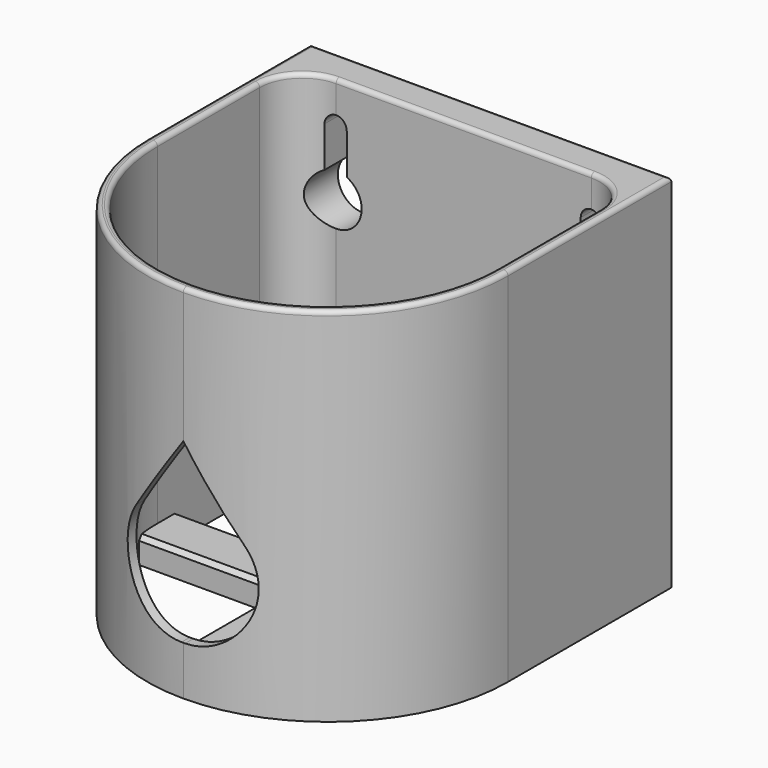
from build123d import *

# Parameters (mm, degrees)
PAD_DEPTH       = 85
PAD001_DEPTH    = 6
POCKET_DEPTH    = 42.401
POCKET001_DEPTH = 48.001
FILLET_R        = 1
CHAMFER_SIZE    = 1


with BuildPart() as part:
    # Sketch → Pad (new body)
    with BuildSketch(Plane.XY):
        with BuildLine():
            Line((40, 30), (40, 0))
            ThreePointArc((0, -40), (28.284271, -28.284271), (40, 0))
            Line((0, -40), (0, -42.4))
            ThreePointArc((0, -42.4), (29.981328, -29.981328), (42.4, 0))
            Line((42.4, 48), (42.4, 0))
            Line((0, 48), (42.4, 48))
            Line((0, 48), (0, 40))
            Line((0, 40), (30, 40))
            ThreePointArc((40, 30), (37.071068, 37.071068), (30, 40))
        make_face()
    pad = extrude(amount=PAD_DEPTH)

    # Mirrored: Pad across Sketch V_Axis
    add(pad.mirror(Plane(origin=(0, 0, 0), x_dir=(0, 0, 1), z_dir=(1, 0, 0))))

    # Sketch001 → Pad001 (join)
    with BuildSketch(Plane.XY):
        Polygon((6, -41.507187), (6, -6), (40.95602, -6), (40.95602, 6), (6, 6), (6, 41.507187), (-6, 41.507187), (-6, 6), (-40.95602, 6), (-40.95602, -6), (-6, -6), (-6, -41.507187), align=None)
    extrude(amount=PAD001_DEPTH)

    # Sketch002 → Pocket (cut, through all)
    with BuildSketch(Plane.XZ):
        with BuildLine():
            Line((0, 53.283252), (-12.698919, 35.147317))
            ThreePointArc((-12.698919, 35.147317), (-13.7168, 19.617441), (-0.411638, 11.54367))
            Line((-0.411638, 11.54367), (0.411638, 11.54367))
            ThreePointArc((0.411638, 11.54367), (13.7168, 19.617441), (12.698919, 35.147317))
            Line((12.698919, 35.147317), (0, 53.283252))
        make_face()
    extrude(amount=POCKET_DEPTH, mode=Mode.SUBTRACT)

    # Sketch003 → Pocket001 (cut, through all)
    with BuildSketch(Plane.XZ):
        with BuildLine():
            ThreePointArc((27.5, 65.454356), (30, 54), (32.5, 65.454356))
            Line((32.5, 65.454356), (32.5, 75))
            ThreePointArc((32.5, 75), (30, 77.5), (27.5, 75))
            Line((27.5, 75), (27.5, 65.454356))
        make_face()
        with BuildLine():
            ThreePointArc((-32.5, 65.454356), (-30, 54), (-27.5, 65.454356))
            Line((-27.5, 65.454356), (-27.5, 75))
            ThreePointArc((-27.5, 75), (-30, 77.5), (-32.5, 75))
            Line((-32.5, 75), (-32.5, 65.454356))
        make_face()
        with BuildLine():
            ThreePointArc((-2.5, 18.617909), (0, 7.163552), (2.5, 18.617909))
            Line((2.5, 18.617909), (2.5, 28.163552))
            ThreePointArc((2.5, 28.163552), (0, 30.663552), (-2.5, 28.163552))
            Line((-2.5, 28.163552), (-2.5, 18.617909))
        make_face()
    extrude(amount=-POCKET001_DEPTH, mode=Mode.SUBTRACT)

    # Fillet
    fillet_edges = [part.edges().sort_by_distance(p)[0] for p in [
        (-40, 15, 85),
        (-28.284271, -28.284271, 85),
        (0, -41.2, 85),
        (-29.981328, -29.981328, 85),
        (-42.4, 24, 85),
        (-21.2, 48, 85),
        (0, 44, 85),
        (-15, 40, 85),
        (-37.071068, 37.071068, 85),
    ]]
    fillet(fillet_edges, radius=FILLET_R)

    # Chamfer
    chamfer_edges = [part.edges().sort_by_distance(p)[0] for p in [
        (-6, 23, 6),
        (-23, 6, 6),
        (-22.77372, -6, 6),
        (-6, -22.77372, 6),
        (6, -22.77372, 6),
        (22.77372, -6, 6),
        (23, 6, 6),
        (6, 23, 6),
    ]]
    chamfer(chamfer_edges, length=CHAMFER_SIZE)


solid = part.part
